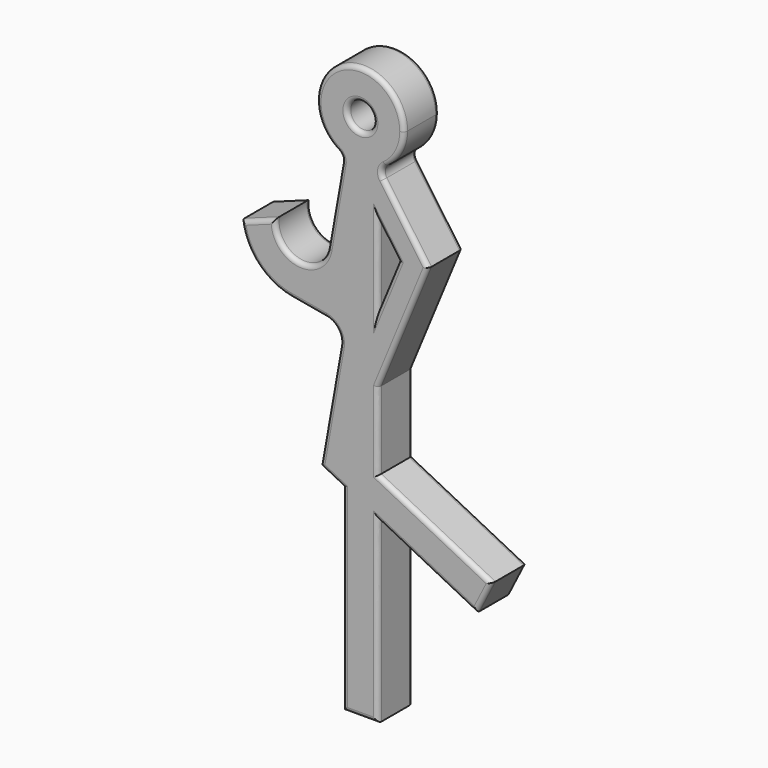
from build123d import *

# Parameters (mm, degrees)
F0_R     = 1.5
F1_DEPTH = 5
F2_R     = 2
F3_R     = 1
F4_R     = 0.5


with BuildPart() as f1:
    # F0 (on Front) → F1 (new body)
    with BuildSketch(Plane.XZ):
        with BuildLine():
            ThreePointArc((2, -4.582576), (4.1833, -2.738613), (5, 0))
            ThreePointArc((5, 0), (-2.738613, 4.1833), (-2, -4.582576))
            ThreePointArc((-2, -4.582576), (0, -5), (2, -4.582576))
        make_face()
        Circle(F0_R, mode=Mode.SUBTRACT)
        Polygon((7.735764, -12.774096), (2, -4.582576), (2, -9.812916), (4.334646, -13.147136), (2, -18.788636), (2, -26.634147), align=None)
        with BuildLine():
            ThreePointArc((2, -4.582576), (0, -5), (-2, -4.582576))
            Line((-2, -4.582576), (-2, -21.844828))
            Line((-2, -21.844828), (-2, -37.934997))
            Line((-2, -37.934997), (2, -39.959095))
            Line((2, -39.959095), (2, -35.47613))
            Line((2, -35.47613), (2, -26.634147))
            Line((2, -26.634147), (2, -18.788636))
            Line((2, -18.788636), (2, -9.812916))
            Line((2, -9.812916), (2, -4.582576))
        make_face()
        with BuildLine():
            Line((-2, -21.844828), (-2, -4.582576))
            Line((-2, -4.582576), (-3.736482, -14.430653))
            ThreePointArc((-3.736482, -14.430653), (-7.21185, -16.864132), (-9.645328, -13.388764))
            Line((-9.645328, -13.388764), (-13.628987, -14.838697))
            ThreePointArc((-13.628987, -14.838697), (-11.742111, -18.755874), (-7.906442, -20.803363))
            Line((-7.906442, -20.803363), (-2, -21.844828))
        make_face()
        Polygon((-2, -37.934997), (-2, -21.844828), (-4.604723, -36.616944), align=None)
        Polygon((2, -35.47613), (2, -39.959095), (13.240612, -45.647118), (15.046647, -42.078051), align=None)
        Polygon((2, -39.959095), (-2, -37.934997), (-2, -60.414732), (2, -60.414732), align=None)
    extrude(amount=F1_DEPTH)

    # F2
    f2_edges = [f1.edges().sort_by_distance(p)[0] for p in [
        (-2, -2.5, -21.844828),
    ]]
    fillet(f2_edges, radius=F2_R)

    # F3
    f3_edges = [f1.edges().sort_by_distance(p)[0] for p in [
        (-2, -2.5, -4.582576),
        (2, -2.5, -4.582576),
    ]]
    fillet(f3_edges, radius=F3_R)

    # F4
    f4_edges = [f1.edges().sort_by_distance(p)[0] for p in [
        (-2.931804, -5, -9.8671),
        (-2.201099, -5, -4.717129),
        (-7.21185, -5, -16.864132),
        (-0.168039, -5, 4.997175),
        (-11.637158, -5, -14.113731),
        (2.46457, -5, -4.736418),
        (-11.742111, -5, -18.755874),
        (5.183066, -5, -9.128465),
        (-5.938029, -5, -21.150447),
        (4.867882, -5, -19.704122),
        (-2.678608, -5, -22.319994),
        (2, -5, -31.055139),
        (-3.47601, -5, -30.215694),
        (8.523323, -5, -38.77709),
        (-3.302361, -5, -37.275971),
        (14.143629, -5, -43.862584),
        (-2, -5, -49.174864),
        (7.620306, -5, -42.803106),
        (0, -5, -60.414732),
        (2, -5, -50.186913),
        (-1.5, -5, 0),
        (2, -5, -14.300776),
        (3.167323, -5, -11.480026),
        (3.167323, -5, -15.967886),
        (-2.931804, 0, -9.8671),
        (-2.201099, 0, -4.717129),
        (-7.21185, 0, -16.864132),
        (-0.168039, 0, 4.997175),
        (-11.637158, 0, -14.113731),
        (2.46457, 0, -4.736418),
        (-11.742111, 0, -18.755874),
        (5.183066, 0, -9.128465),
        (-5.938029, 0, -21.150447),
        (4.867882, 0, -19.704122),
        (-2.678608, 0, -22.319994),
        (2, 0, -31.055139),
        (-3.47601, 0, -30.215694),
        (8.523323, 0, -38.77709),
        (-3.302361, 0, -37.275971),
        (14.143629, 0, -43.862584),
        (-2, 0, -49.174864),
        (7.620306, 0, -42.803106),
        (0, 0, -60.414732),
        (2, 0, -50.186913),
        (-1.5, 0, 0),
        (2, 0, -14.300776),
        (3.167323, 0, -11.480026),
        (3.167323, 0, -15.967886),
    ]]
    fillet(f4_edges, radius=F4_R)


solid = f1.part
